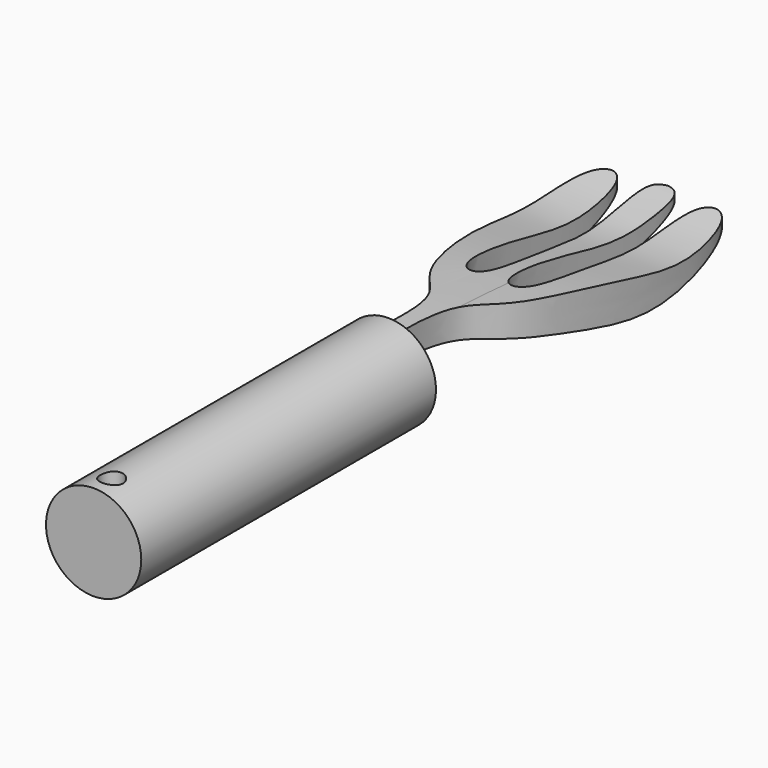
from build123d import *

# Parameters (mm, degrees)
F0_W      = 65.8345445991
F0_H      = 141.0413682461
F1_DEPTH  = 30
F4_DEPTH  = 30
F5_DEPTH  = 30
F6_DEPTH  = 30
F2_W      = 65.8345445991
F2_H      = 141.0413682461
F7_DEPTH  = 30
F8_R      = 9.051787117
F9_DEPTH  = 70
F10_R     = 2.1565307983
F11_DEPTH = 30


with BuildPart() as f1:
    # F0 (on Top) → F1 (new body)
    with BuildSketch(Plane.XY):
        Rectangle(F0_W, F0_H)
    extrude(amount=F1_DEPTH)

    # F3 (on face) → F4 (cut)
    with BuildSketch(Plane.YZ.offset(32.9172722995)):
        with BuildLine():
            Line((0, 27.3167672567), (0, 30))
            Line((0, 30), (-70.520684123, 30))
            Line((-70.520684123, 30), (-70.520684123, 0))
            Line((-70.520684123, 0), (0, 0))
            Line((0, 0), (0, 7.6578375883))
            Line((0, 7.6578375883), (-67.4346908927, 7.6578375883))
            Line((-67.4346908927, 7.6578375883), (-67.4346908927, 15.8873121439))
            add(Edge.make_bspline(
                [(-67.4346908927, 17.4873024225), (-67.6566654593, 16.9711673984), (-67.6309776292, 16.4237703401), (-67.4346908927, 15.8873121439)],
                knots=[0.4362485085, 0.4362485085, 0.4362485085, 0.4362485085, 0.4508896354, 0.4508896354, 0.4508896354, 0.4508896354], degree=3))
            Line((-67.4346908927, 17.4873024225), (-67.4346908927, 27.3167672567))
            Line((-67.4346908927, 27.3167672567), (0, 27.3167672567))
        make_face()
        with BuildLine():
            Line((70.520684123, 30), (0, 30))
            Line((0, 30), (0, 27.3167672567))
            Line((0, 27.3167672567), (67.4346908927, 27.3167672567))
            Line((67.4346908927, 27.3167672567), (67.4346908927, 21.8305531889))
            add(Edge.make_bspline(
                [(67.4346908927, 21.7958762913), (67.43703465, 21.8082571696), (67.4370496545, 21.8198235891), (67.4346908927, 21.8305531889)],
                knots=[0.9984562509, 0.9984562509, 0.9984562509, 0.9984562509, 1, 1, 1, 1], degree=3))
            Line((67.4346908927, 21.7958762913), (67.4346908927, 7.6578375883))
            Line((67.4346908927, 7.6578375883), (0, 7.6578375883))
            Line((0, 7.6578375883), (0, 0))
            Line((0, 0), (70.520684123, 0))
            Line((70.520684123, 0), (70.520684123, 30))
        make_face()
        with BuildLine():
            Line((0, 7.6578375883), (0, 19.9896920901))
            add(Edge.make_bspline(
                [(-67.4346908927, 15.8873121439), (-66.8102457838, 14.1806828388), (-60.9278224275, 10.1875540739), (-58.2860287538, 22.0624884009), (-21.4768531831, 21.7240253644), (0, 19.9896920901)],
                knots=[0.4508896354, 0.4508896354, 0.4508896354, 0.4508896354, 0.4974673116, 0.5674308779, 0.7167139659, 0.7167139659, 0.7167139659, 0.7167139659], degree=3))
            Line((-67.4346908927, 15.8873121439), (-67.4346908927, 7.6578375883))
            Line((-67.4346908927, 7.6578375883), (0, 7.6578375883))
        make_face()
        with BuildLine():
            add(Edge.make_bspline(
                [(0, 19.9896920901), (8.3063312739, 19.3189259125), (32.7245366617, 16.5039847849), (44.9882767524, 11.516751949), (67.2824185383, 20.9914988559), (67.4346908927, 21.7958762913)],
                knots=[0.7167139659, 0.7167139659, 0.7167139659, 0.7167139659, 0.7744503006, 0.8981598986, 0.9984562509, 0.9984562509, 0.9984562509, 0.9984562509], degree=3))
            Line((0, 19.9896920901), (0, 7.6578375883))
            Line((0, 7.6578375883), (67.4346908927, 7.6578375883))
            Line((67.4346908927, 7.6578375883), (67.4346908927, 21.7958762913))
        make_face()
        with BuildLine():
            Line((67.4346908927, 27.3167672567), (0, 27.3167672567))
            Line((0, 27.3167672567), (0, 24.6558002435))
            add(Edge.make_bspline(
                [(67.4346908927, 21.8305531889), (67.3045438285, 22.4225696954), (49.4215271901, 17.6689053131), (40.1615230672, 22.9075845887), (10.5854614481, 24.449755128), (0, 24.6558002435)],
                knots=[0, 0, 0, 0, 0.0851779159, 0.207051092, 0.2676219092, 0.2676219092, 0.2676219092, 0.2676219092], degree=3))
            Line((67.4346908927, 21.8305531889), (67.4346908927, 27.3167672567))
        make_face()
        with BuildLine():
            Line((0, 24.6558002435), (0, 27.3167672567))
            Line((0, 27.3167672567), (-67.4346908927, 27.3167672567))
            Line((-67.4346908927, 27.3167672567), (-67.4346908927, 17.4873024225))
            add(Edge.make_bspline(
                [(0, 24.6558002435), (-29.4694780416, 25.2294211511), (-64.8781379263, 23.4317966374), (-67.4346908927, 17.4873024225)],
                knots=[0.2676219092, 0.2676219092, 0.2676219092, 0.2676219092, 0.4362485085, 0.4362485085, 0.4362485085, 0.4362485085], degree=3))
        make_face()
    extrude(amount=-F4_DEPTH, mode=Mode.SUBTRACT)

    # F5 (cut): a face of the model
    f5_faces = [f1.faces().sort_by_distance(p)[0] for p in [
        (2.9172722995, -0.1475738837, 14.0859474592),
    ]]
    extrude(f5_faces, amount=-F5_DEPTH, mode=Mode.SUBTRACT)

    # F6 (cut): a face of the model
    f6_faces = [f1.faces().sort_by_distance(p)[0] for p in [
        (-27.0827277005, -0.1475738837, 14.0859474592),
    ]]
    extrude(f6_faces, amount=-F6_DEPTH, mode=Mode.SUBTRACT)

    # F2 (on face) → F7 (cut)
    with BuildSketch(Plane.XY.offset(30)):
        Rectangle(F2_W, F2_H)
        with BuildLine():
            add(Edge.make_bspline(
                [(0, 66.4060264826), (-1.1296698817, 66.1911696538), (-5.8777180053, 65.2881177274), (2.3620124648, 23.3155990625), (-10.5343383188, 24.8122909571), (-2.3935803092, 66.4116495687), (-17.8744010138, 65.3622839028), (-11.77763203, 16.6189470254), (4.1105988486, 15.4872297145), (-10.8750280648, -64.4163899128), (-2.1648774518, -67.6577312558), (0, -68.4633553028)],
                knots=[0, 0, 0, 0, 0.0483608441, 0.2032625802, 0.2513936809, 0.4049621262, 0.4612115291, 0.6236671745, 0.7158670852, 0.9293797584, 1, 1, 1, 1], degree=3))
            add(Edge.make_bspline(
                [(0, 66.4060264826), (1.1296698817, 66.1911696538), (5.8777180053, 65.2881177274), (-2.3620124648, 23.3155990625), (10.5343383188, 24.8122909571), (2.3935803092, 66.4116495687), (17.8744010138, 65.3622839028), (11.77763203, 16.6189470254), (-4.1105988486, 15.4872297145), (10.8750280648, -64.4163899128), (2.1648774518, -67.6577312558), (0, -68.4633553028)],
                knots=[0, 0, 0, 0, 0.0483608441, 0.2032625802, 0.2513936809, 0.4049621262, 0.4612115291, 0.6236671745, 0.7158670852, 0.9293797584, 1, 1, 1, 1], degree=3))
        make_face(mode=Mode.SUBTRACT)
    extrude(amount=-F7_DEPTH, mode=Mode.SUBTRACT)

    # F8 (on Front) → F9 (join)
    with BuildSketch(Plane.XZ):
        with Locations((0, 17.7158936858)):
            Circle(F8_R)
    extrude(amount=F9_DEPTH)

    # F10 (on Top) → F11 (cut)
    with BuildSketch(Plane.XY):
        with Locations((0, -65.7202526927)):
            Circle(F10_R)
    extrude(amount=F11_DEPTH, mode=Mode.SUBTRACT)


solid = f1.part
